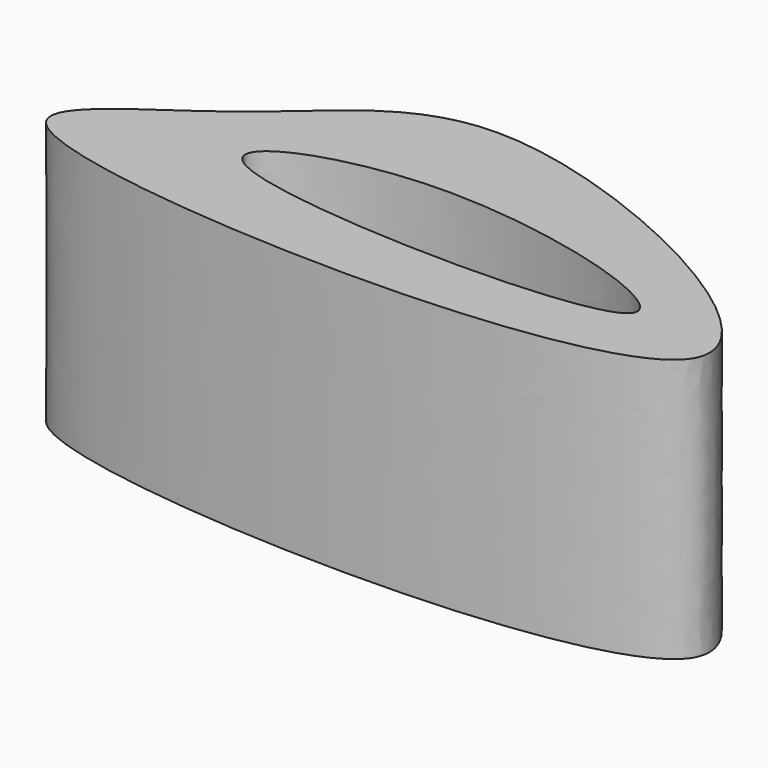
from build123d import *

# Parameters (mm, degrees)
F1_DEPTH = 25.4


with BuildPart() as f1:
    # F0 (on Top) → F1 (new body)
    with BuildSketch(Plane.XY):
        with BuildLine():
            add(Edge.make_bspline(
                [(-67.4893558025, 31.7596979439), (-70.406775652, 34.485475821), (-54.2535526184, 42.7103940143), (-43.4172163799, 60.0975070178), (28.4368223273, 23.0816546616), (-61.3763465798, 26.048245304), (-67.4893558025, 31.7596979439)],
                knots=[0, 0, 0, 0, 0.1669264084, 0.3763926078, 0.6502311196, 1, 1, 1, 1], degree=3))
        make_face()
        with BuildLine():
            add(Edge.make_bspline(
                [(-52.2202663124, 36.340419203), (-55.0040342619, 38.5548302294), (-37.8763901157, 46.2143313839), (7.0289455199, 31.6344318856), (-47.8038284299, 32.8272640402), (-52.2202663124, 36.340419203)],
                knots=[0, 0, 0, 0, 0.2581387566, 0.5904637871, 1, 1, 1, 1], degree=3))
        make_face(mode=Mode.SUBTRACT)
    extrude(amount=F1_DEPTH)


solid = f1.part
